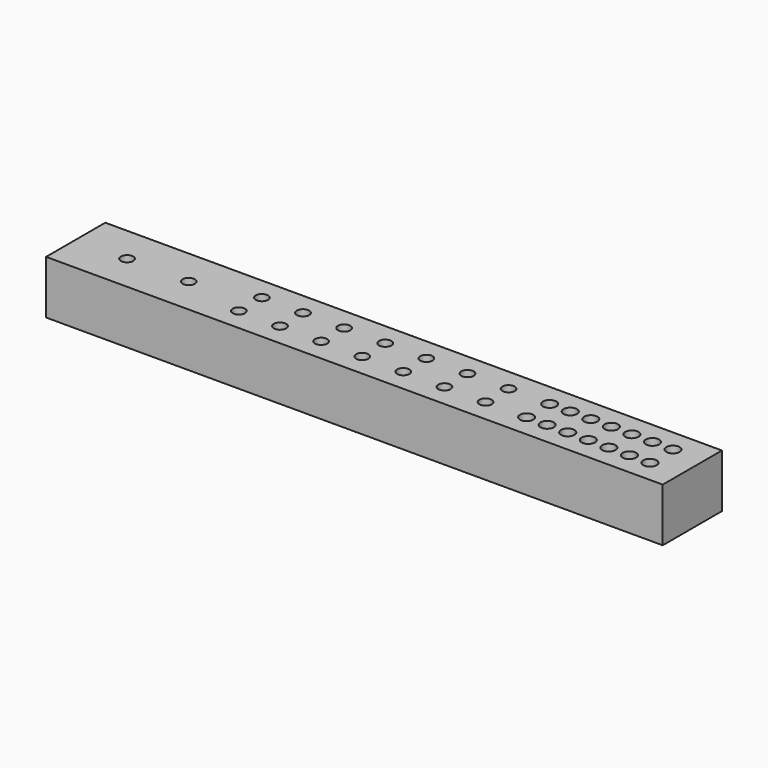
from build123d import *

# Parameters (mm, degrees)
SKETCH_W        = 300
SKETCH_H        = 36
PAD_DEPTH       = 26
SKETCH001_R     = 3
SKETCH001_R_2   = 1.6
POCKET_DEPTH    = 20
SKETCH002_R     = 3
POCKET001_DEPTH = 15
SKETCH003_R     = 3.25
POCKET002_DEPTH = 7


with BuildPart() as part:
    # Sketch → Pad (new body)
    with BuildSketch(Plane.XY):
        with Locations((150, 18)):
            Rectangle(SKETCH_W, SKETCH_H)
    extrude(amount=-PAD_DEPTH)

    # Sketch001 (on Face5 of Pad) → Pocket (cut)
    with BuildSketch(Plane.XY):
        with Locations((25, 18)):
            Circle(SKETCH001_R)
        with Locations((55, 18)):
            Circle(SKETCH001_R)
        with Locations((85, 25)):
            Circle(SKETCH001_R)
        with Locations((105, 25)):
            Circle(SKETCH001_R)
        with Locations((125, 25)):
            Circle(SKETCH001_R)
        with Locations((145, 25)):
            Circle(SKETCH001_R)
        with Locations((165, 25)):
            Circle(SKETCH001_R)
        with Locations((185, 25)):
            Circle(SKETCH001_R)
        with Locations((205, 25)):
            Circle(SKETCH001_R)
        with Locations((225, 25)):
            Circle(SKETCH001_R_2)
        with Locations((235, 25)):
            Circle(SKETCH001_R_2)
        with Locations((245, 25)):
            Circle(SKETCH001_R_2)
        with Locations((255, 25)):
            Circle(SKETCH001_R_2)
        with Locations((265, 25)):
            Circle(SKETCH001_R_2)
        with Locations((275, 25)):
            Circle(SKETCH001_R_2)
        with Locations((285, 25)):
            Circle(SKETCH001_R_2)
        with Locations((85, 11)):
            Circle(SKETCH001_R)
        with Locations((105, 11)):
            Circle(SKETCH001_R)
        with Locations((125, 11)):
            Circle(SKETCH001_R)
        with Locations((145, 11)):
            Circle(SKETCH001_R)
        with Locations((165, 11)):
            Circle(SKETCH001_R)
        with Locations((185, 11)):
            Circle(SKETCH001_R)
        with Locations((205, 11)):
            Circle(SKETCH001_R)
        with Locations((235, 11)):
            Circle(SKETCH001_R_2)
        with Locations((245, 11)):
            Circle(SKETCH001_R_2)
        with Locations((255, 11)):
            Circle(SKETCH001_R_2)
        with Locations((265, 11)):
            Circle(SKETCH001_R_2)
        with Locations((275, 11)):
            Circle(SKETCH001_R_2)
        with Locations((285, 11)):
            Circle(SKETCH001_R_2)
        with Locations((225, 11)):
            Circle(SKETCH001_R_2)
    extrude(amount=-POCKET_DEPTH, mode=Mode.SUBTRACT)

    # Sketch002 (on Face5 of Pocket) → Pocket001 (cut)
    with BuildSketch(Plane(origin=(0, 0, -26), x_dir=(1, 0, 0), z_dir=(0, 0, -1))):
        with Locations((80, -18)):
            Circle(SKETCH002_R)
        with Locations((220, -18)):
            Circle(SKETCH002_R)
    extrude(amount=-POCKET001_DEPTH, mode=Mode.SUBTRACT)

    # Sketch003 (on Face4 of Pocket) → Pocket002 (cut)
    with BuildSketch(Plane.XY):
        with Locations((225, 11)):
            Circle(SKETCH003_R)
        with Locations((235, 11)):
            Circle(SKETCH003_R)
        with Locations((245, 11)):
            Circle(SKETCH003_R)
        with Locations((255, 11)):
            Circle(SKETCH003_R)
        with Locations((265, 11)):
            Circle(SKETCH003_R)
        with Locations((275, 11)):
            Circle(SKETCH003_R)
        with Locations((285, 11)):
            Circle(SKETCH003_R)
        with Locations((225, 25)):
            Circle(SKETCH003_R)
        with Locations((235, 25)):
            Circle(SKETCH003_R)
        with Locations((245, 25)):
            Circle(SKETCH003_R)
        with Locations((255, 25)):
            Circle(SKETCH003_R)
        with Locations((265, 25)):
            Circle(SKETCH003_R)
        with Locations((275, 25)):
            Circle(SKETCH003_R)
        with Locations((285, 25)):
            Circle(SKETCH003_R)
    extrude(amount=-POCKET002_DEPTH, mode=Mode.SUBTRACT)


solid = part.part
